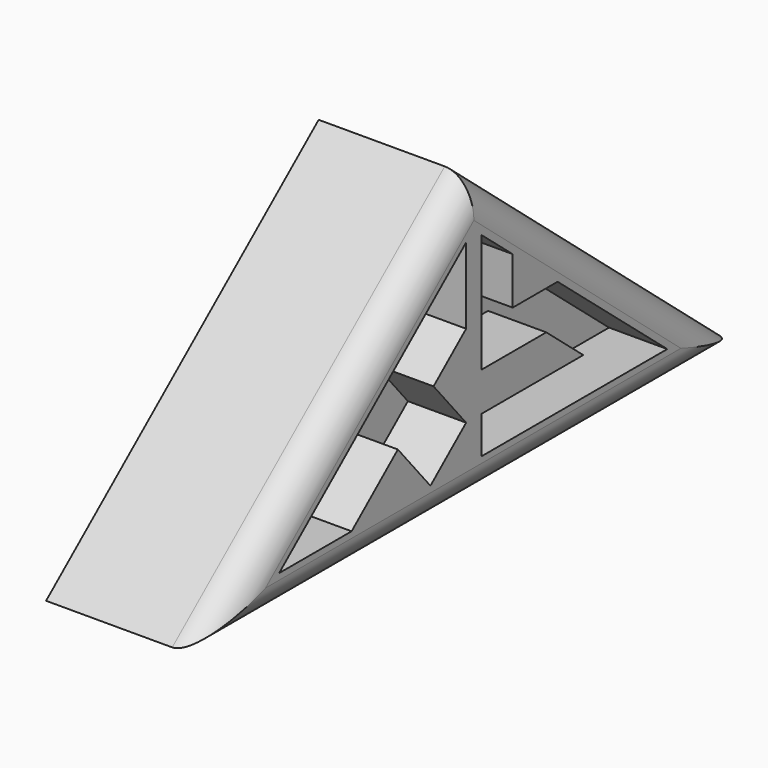
from build123d import *

# Parameters (mm, degrees)
F1_DEPTH = 8
F3_DEPTH = 3
F4_R     = 1.5


with BuildPart() as f1:
    # F0 (on Right) → F1 (new body)
    with BuildSketch(Plane.YZ):
        Polygon((0, 14.684157), (-17.555564, 0), (17.444436, 0), align=None)
    extrude(amount=F1_DEPTH)

    # F2 (on face) → F3 (cut)
    with BuildSketch(Plane.YZ.offset(8)):
        Polygon((-0.5, 11.925979), (-12.543837, 1.82), (-7.876665, 1.82), (-4.89646, 4.320689), (-2.798133, 1.82), (-0.5, 3.748363), (-2.598327, 6.249052), (-0.5, 8.009757), align=None)
        Polygon((2.5, 10.174213), (0.5, 11.852412), (0.5, 5.748363), (4.663075, 5.748363), (7.046582, 3.748363), (0.5, 3.748363), (0.5, 1.82), (12.456163, 1.82), (5.391016, 7.748363), (2.5, 7.748363), align=None)
    extrude(amount=-F3_DEPTH, mode=Mode.SUBTRACT)

    # F4
    f4_edges = [f1.edges().sort_by_distance(p)[0] for p in [
        (8, 8.722218, 7.342078),
        (8, -8.777782, 7.342078),
        (8, -0.055564, 0),
    ]]
    fillet(f4_edges, radius=F4_R)


solid = f1.part
